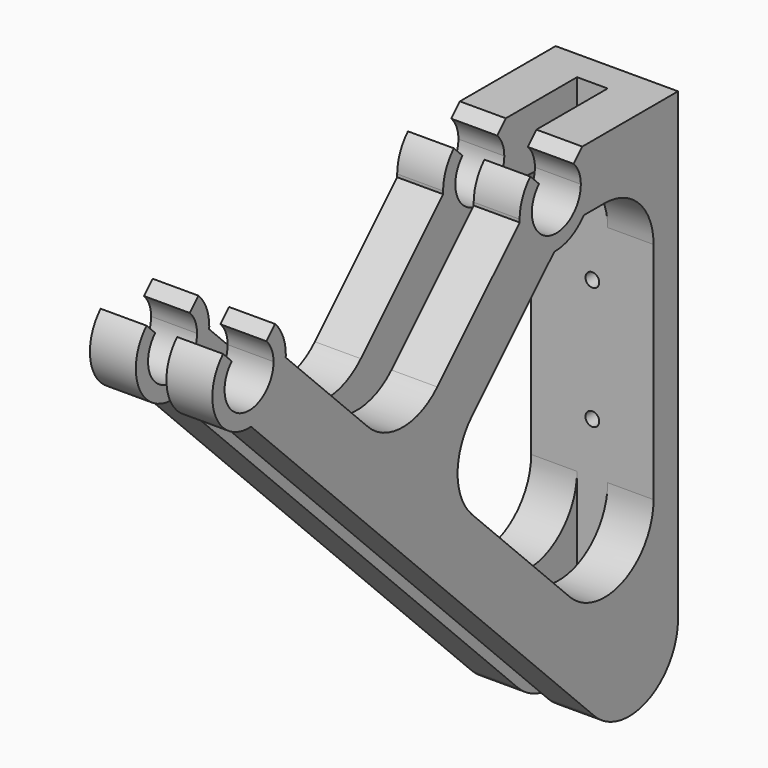
from build123d import *

# Parameters (mm, degrees)
F1_DEPTH = 50.8
F3_W     = 12.7
F3_H     = 218.0215369846
F4_DEPTH = 254
F5_R     = 2.8575
F6_DEPTH = 12.701


with BuildPart() as f1:
    # F0 (on Right) → F1 (new body)
    with BuildSketch(Plane.YZ):
        with BuildLine():
            ThreePointArc((92.3909342397, -79.6909342397), (74.8308546487, -91.4242043026), (70.7106781187, -70.7106781187))
            ThreePointArc((70.7106781187, -70.7106781187), (65.8235712608, -75.2811893269), (60.6417499855, -79.5146411593))
            ThreePointArc((60.6417499855, -79.5146411593), (60.6460643138, -80.133008335), (60.6704465476, -80.7509096897))
            Line((60.6704465476, -80.7509096897), (17.9605122421, -123.4608439952))
            ThreePointArc((17.9605122421, -123.4608439952), (0, -130.900331753), (-17.9605122421, -123.4608439952))
            Line((-17.9605122421, -123.4608439952), (-60.6704465476, -80.7509096897))
            ThreePointArc((-60.6704465476, -80.7509096897), (-60.6460643138, -80.133008335), (-60.6417499855, -79.5146411593))
            ThreePointArc((-60.6417499855, -79.5146411593), (-65.8235712608, -75.2811893269), (-70.7106781187, -70.7106781187))
            ThreePointArc((-70.7106781187, -70.7106781187), (-67.9576641768, -74.8308546487), (-66.9909342397, -79.6909342397))
            ThreePointArc((-66.9909342397, -79.6909342397), (-84.5510138308, -91.4242043026), (-88.6711903608, -70.7106781187))
            Line((-88.6711903608, -70.7106781187), (-93.1613184213, -66.2205500581))
            ThreePointArc((-93.1613184213, -66.2205500581), (-97.0811254405, -87.4680641731), (-78.6309587898, -98.7114219318))
            Line((-78.6309587898, -98.7114219318), (99.4602185633, -276.8025992848))
            ThreePointArc((99.4602185633, -276.8025992848), (127.1408899875, -282.3086271685), (142.8207308054, -258.8420870427))
            Line((142.8207308054, -258.8420870427), (142.8207308054, -66.2205500581))
            Line((142.8207308054, -66.2205500581), (130.1207308054, -66.2205500581))
            Line((130.1207308054, -66.2205500581), (93.1613184213, -66.2205500581))
            Line((93.1613184213, -66.2205500581), (88.6711903608, -70.7106781187))
            ThreePointArc((88.6711903608, -70.7106781187), (91.4242043026, -74.8308546487), (92.3909342397, -79.6909342397))
        make_face()
        with BuildLine():
            ThreePointArc((78.6309587898, -98.7114219318), (87.0857697361, -96.9419835869), (93.8899658968, -91.6205500581))
            Line((93.8899658968, -91.6205500581), (104.7207308054, -91.6205500581))
            ThreePointArc((104.7207308054, -91.6205500581), (122.6812430475, -99.060037816), (130.1207308054, -117.0205500581))
            Line((130.1207308054, -117.0205500581), (130.1207308054, -210.2210625584))
            ThreePointArc((130.1207308054, -210.2210625584), (114.4408899875, -233.6876026842), (86.7602185633, -228.1815748006))
            Line((86.7602185633, -228.1815748006), (35.9210244843, -177.3423807216))
            ThreePointArc((35.9210244843, -177.3423807216), (28.4815367264, -159.3818684794), (35.9210244843, -141.4213562373))
            Line((35.9210244843, -141.4213562373), (78.6309587898, -98.7114219318))
        make_face(mode=Mode.SUBTRACT)
        with BuildLine():
            ThreePointArc((60.6417499855, -79.5146411593), (65.8235712608, -75.2811893269), (70.7106781187, -70.7106781187))
            Line((70.7106781187, -70.7106781187), (66.2205500581, -66.2205500581))
            ThreePointArc((66.2205500581, -66.2205500581), (62.1249501408, -72.3194552405), (60.6417499855, -79.5146411593))
        make_face()
        with BuildLine():
            Line((-66.2205500581, -66.2205500581), (-70.7106781187, -70.7106781187))
            ThreePointArc((-70.7106781187, -70.7106781187), (-65.8235712608, -75.2811893269), (-60.6417499855, -79.5146411593))
            ThreePointArc((-60.6417499855, -79.5146411593), (-62.1249501408, -72.3194552405), (-66.2205500581, -66.2205500581))
        make_face()
    extrude(amount=F1_DEPTH)

    # F3 (on offset) → F4 (cut, through all)
    with BuildSketch(Plane.XZ.offset(123.8792691946)):
        with Locations((25.4, -175.2313185504)):
            Rectangle(F3_W, F3_H)
    extrude(amount=-F4_DEPTH, mode=Mode.SUBTRACT)

    # F5 (on face) → F6 (cut, through all)
    with BuildSketch(Plane.XZ.offset(-130.1207308054)):
        with Locations((25.4, -138.2208063083)):
            Circle(F5_R)
        with Locations((25.4, -87.4208063083)):
            Circle(F5_R)
        with Locations((25.4, -239.8208063083)):
            Circle(F5_R)
        with Locations((25.4, -189.0208063083)):
            Circle(F5_R)
    extrude(amount=-F6_DEPTH, mode=Mode.SUBTRACT)


solid = f1.part
